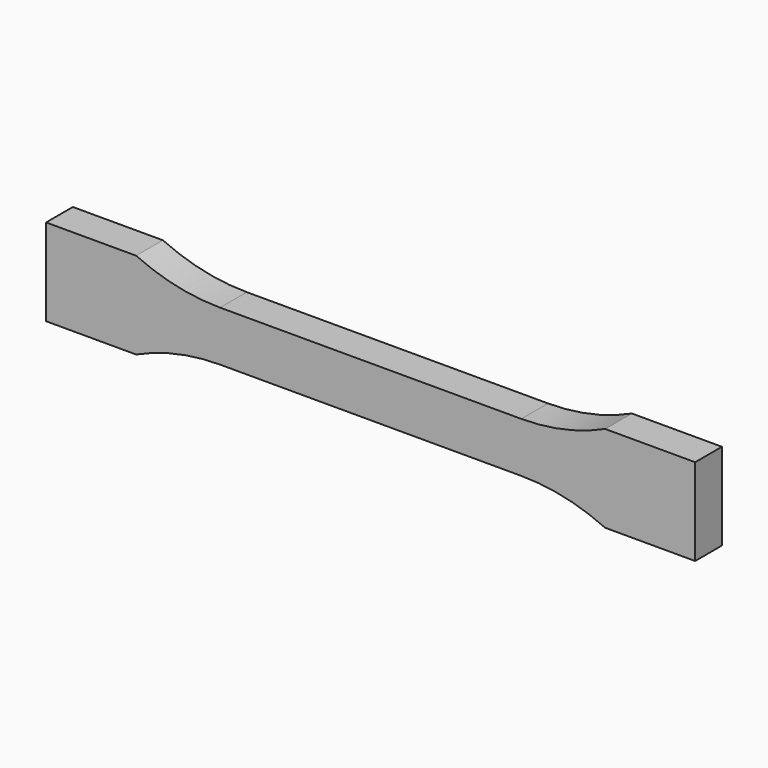
from build123d import *

# Parameters (mm, degrees)
F1_DEPTH = 12.7


with BuildPart() as f1:
    # F0 (on Front) → F1 (new body)
    with BuildSketch(Plane.XZ):
        with BuildLine():
            Line((57.15, 9.525), (0, 9.525))
            Line((0, 9.525), (-57.15, 9.525))
            ThreePointArc((-57.15, 9.525), (-73.463445, 11.291731), (-89.020422, 16.51))
            Line((-89.020422, 16.51), (-123.19, 16.51))
            Line((-123.19, 16.51), (-123.19, 0))
            Line((-123.19, 0), (-123.19, -16.51))
            Line((-123.19, -16.51), (-89.020422, -16.51))
            ThreePointArc((-89.020422, -16.51), (-73.463445, -11.291731), (-57.15, -9.525))
            Line((-57.15, -9.525), (0, -9.525))
            Line((0, -9.525), (57.15, -9.525))
            ThreePointArc((57.15, -9.525), (73.463445, -11.291731), (89.020422, -16.51))
            Line((89.020422, -16.51), (123.19, -16.51))
            Line((123.19, -16.51), (123.19, 0))
            Line((123.19, 0), (123.19, 16.51))
            Line((123.19, 16.51), (89.020422, 16.51))
            ThreePointArc((89.020422, 16.51), (73.463445, 11.291731), (57.15, 9.525))
        make_face()
    extrude(amount=F1_DEPTH)


solid = f1.part
